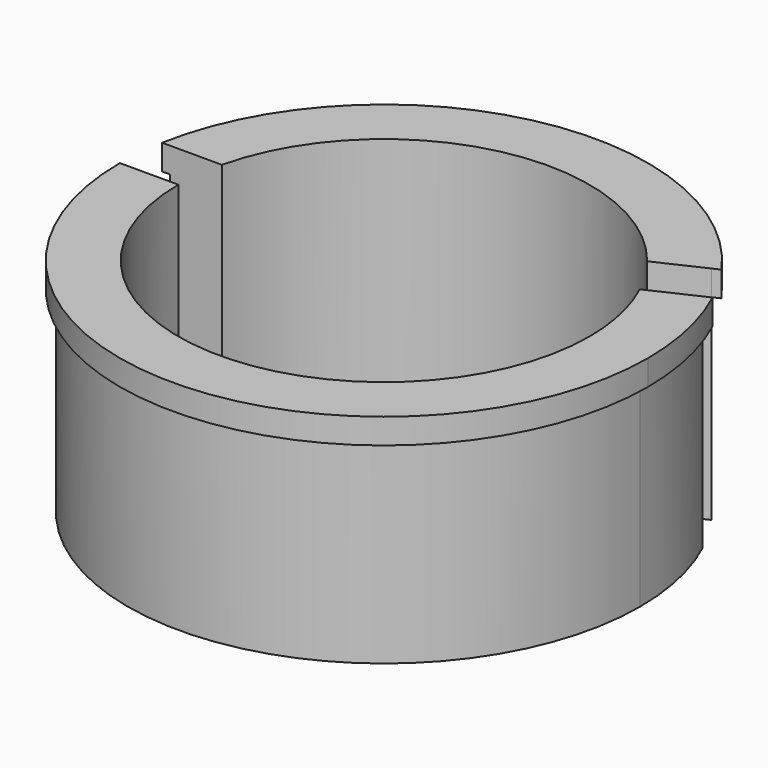
from build123d import *

# Parameters (mm, degrees)
F1_DEPTH = 7
F2_DEPTH = 0.8
F3_DEPTH = 7
F4_DEPTH = 0.8


with BuildPart() as f1:
    # F0 (on Top) → F1 (new body)
    with BuildSketch(Plane.XY):
        with BuildLine():
            ThreePointArc((8.1, 0), (7.9079976577, 1.7531608729), (7.341093075, 3.4232079201))
            Line((7.341093075, 3.4232079201), (5.8910006157, 2.7470187013))
            ThreePointArc((5.8910006157, 2.7470187013), (6.3459240463, 1.4068574906), (6.5, 0))
            ThreePointArc((6.5, 0), (0, -6.5), (-6.5, 0))
            Line((-6.5, 0), (-8.1, 0))
            ThreePointArc((-8.1, 0), (0, -8.1), (8.1, 0))
        make_face()
    extrude(amount=-F1_DEPTH)

    # F0 (on Top) → F2 (join)
    with BuildSketch(Plane.XY):
        with BuildLine():
            ThreePointArc((-8.35, 0), (0, -8.35), (8.35, 0))
            ThreePointArc((8.35, 0), (8.1520716595, 1.8072707764), (7.5676700218, 3.5288624855))
            Line((7.5676700218, 3.5288624855), (7.341093075, 3.4232079201))
            ThreePointArc((7.341093075, 3.4232079201), (7.9079976577, 1.7531608729), (8.1, 0))
            ThreePointArc((8.1, 0), (0, -8.1), (-8.1, 0))
            Line((-8.1, 0), (-8.35, 0))
        make_face()
    extrude(amount=-F2_DEPTH)


with BuildPart() as f3:
    # F0 (on Top) → F3 (new body)
    with BuildSketch(Plane.XY):
        with BuildLine():
            Line((5.0980663438, 4.0323342563), (6.5801915054, 4.7234605695))
            ThreePointArc((6.5801915054, 4.7234605695), (-1.7531608729, 7.9079976577), (-7.9598994969, 1.5))
            Line((-7.9598994969, 1.5), (-6.3245553203, 1.5))
            ThreePointArc((-6.3245553203, 1.5), (-1.4068574906, 6.3459240463), (5.0980663438, 4.0323342563))
        make_face()
    extrude(amount=-F3_DEPTH)

    # F0 (on Top) → F4 (join)
    with BuildSketch(Plane.XY):
        with BuildLine():
            Line((6.5801915054, 4.7234605695), (6.8106339442, 4.8309176435))
            ThreePointArc((6.8106339442, 4.8309176435), (-1.8072707764, 8.1520716595), (-8.2141645954, 1.5))
            Line((-8.2141645954, 1.5), (-7.9598994969, 1.5))
            ThreePointArc((-7.9598994969, 1.5), (-1.7531608729, 7.9079976577), (6.5801915054, 4.7234605695))
        make_face()
    extrude(amount=-F4_DEPTH)


solid = Compound([f1.part, f3.part])
